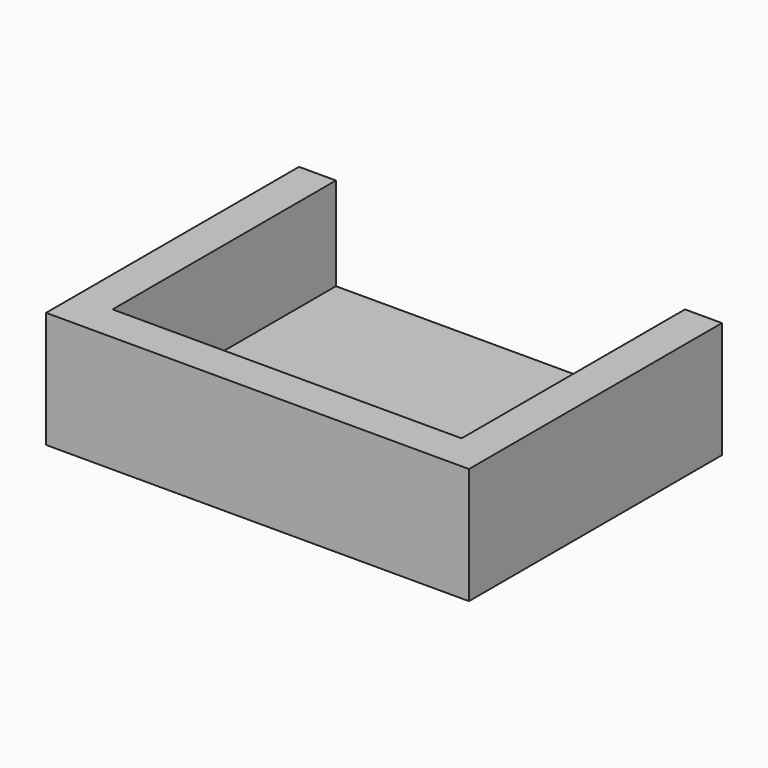
from build123d import *

# Parameters (mm, degrees)
F1_DEPTH = 5
F0_W     = 7.9375
F0_H     = 2.5
F2_DEPTH = 1
F3_DEPTH = 3.175


with BuildPart() as f1:
    # F0 (on Top) → F1 (new body)
    with BuildSketch(Plane.XY):
        Polygon((7.5, 6), (7.5, -6), (7.5, -7.5875), (9.0875, -7.5875), (9.0875, 6), align=None)
        Polygon((7.5, -7.5875), (7.5, -6), (4.5, -6), (-7.5, -6), (-7.5, -7.5875), align=None)
        Polygon((-7.5, -7.5875), (-7.5, -6), (-7.5, 4.4125), (-7.5, 6), (-7.5875, 6), (-9.0875, 6), (-9.0875, -7.5875), align=None)
    extrude(amount=F1_DEPTH)

    # F0 (on Top) → F2 (join)
    with BuildSketch(Plane.XY):
        Polygon((7.5, -7.5875), (7.5, -6), (4.5, -6), (-7.5, -6), (-7.5, -7.5875), align=None)
        Polygon((4.5, -6), (7.5, -6), (7.5, 6), (3.96875, 6), (3.96875, 3.5), (-3.96875, 3.5), (-3.96875, 6), (-5.46875, 6), (-6, 6), (-7.5, 6), (-7.5, 4.4125), (-7.5, -6), align=None)
        Polygon((7.5, 6), (7.5, -6), (7.5, -7.5875), (9.0875, -7.5875), (9.0875, 6), align=None)
        Polygon((-7.5, -7.5875), (-7.5, -6), (-7.5, 4.4125), (-7.5, 6), (-7.5875, 6), (-9.0875, 6), (-9.0875, -7.5875), align=None)
        with Locations((0, 4.75)):
            Rectangle(F0_W, F0_H)
    extrude(amount=F2_DEPTH)

    # F0 (on Top) → F3 (join)
    with BuildSketch(Plane.XY):
        with Locations((0, 4.75)):
            Rectangle(F0_W, F0_H)
    extrude(amount=-F3_DEPTH)


solid = f1.part
